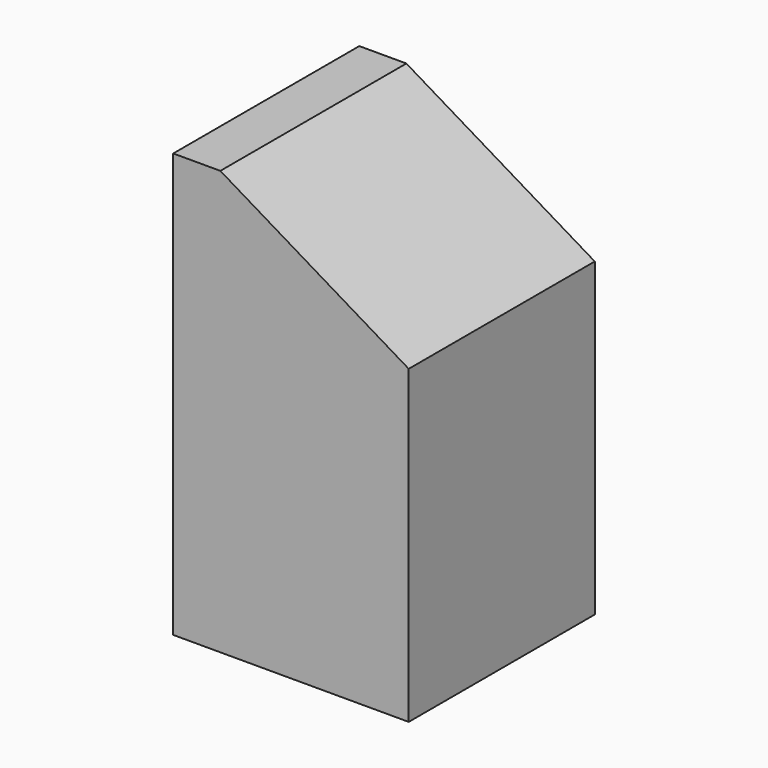
from build123d import *

# Parameters (mm, degrees)
SKETCH006_W     = 16
SKETCH006_H     = 15.8
PAD005_DEPTH    = 28.8
POCKET001_DEPTH = 16
PAD128_DEPTH    = 15.8


with BuildPart() as part:
    # Sketch006 (on Face72 of Binder001) → Pad005 (new body)
    with BuildSketch(Plane.XY.offset(-28.8)):
        with Locations((135.8, 127.9)):
            Rectangle(SKETCH006_W, SKETCH006_H)
    extrude(amount=PAD005_DEPTH)

    # Sketch007 (on Face3 of Pad005) → Pocket001 (cut)
    with BuildSketch(Plane.XZ.offset(-120)):
        Polygon((127.8, 0), (143.8, -9.6), (143.8, 0), align=None)
    extrude(amount=-POCKET001_DEPTH, mode=Mode.SUBTRACT)

    # Sketch128 (on Face1 of Pocket001) → Pad128 (join)
    with BuildSketch(Plane(origin=(0, 135.8, 0), x_dir=(-1, 0, 0), z_dir=(0, 1, 0))):
        Polygon((-127.8, 0), (-131, 0), (-143.8, -7.68), (-143.8, -10.88), (-131, -3.2), (-127.8, -3.2), align=None)
    extrude(amount=-PAD128_DEPTH)


solid = part.part
